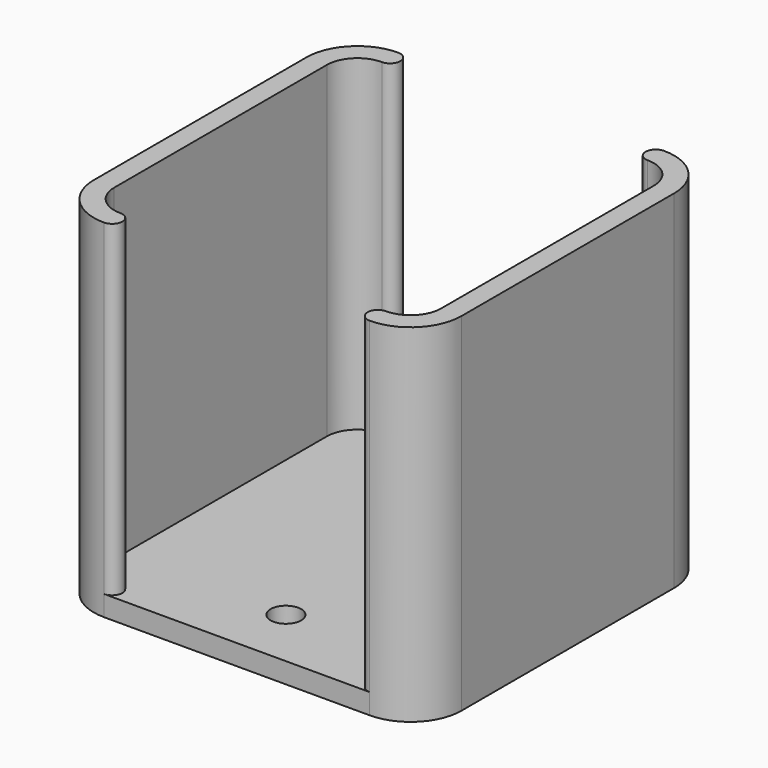
from build123d import *

# Parameters (mm, degrees)
F0_W     = 36
F0_H     = 36
F1_DEPTH = 34
F2_R     = 5
F4_DEPTH = 32
F5_R     = 1.5
F6_DEPTH = 25
F8_DEPTH = 32


with BuildPart() as f1:
    # F0 (on Top) → F1 (new body)
    with BuildSketch(Plane.XY):
        Rectangle(F0_W, F0_H)
    extrude(amount=F1_DEPTH)

    # F2
    f2_edges = [f1.edges().sort_by_distance(p)[0] for p in [
        (18, 18, 17),
        (-18, 18, 17),
        (18, -18, 17),
        (-18, -18, 17),
    ]]
    fillet(f2_edges, radius=F2_R)

    # F3 (on face) → F4 (cut)
    with BuildSketch(Plane.XY.offset(34)):
        with BuildLine():
            ThreePointArc((-13, 18), (-12, 17), (-13, 16))
            ThreePointArc((-13, 16), (-15.1213203436, 15.1213203436), (-16, 13))
            Line((-16, 13), (-16, -13))
            ThreePointArc((-16, -13), (-15.1213203436, -15.1213203436), (-13, -16))
            Line((-13, -16), (13, -16))
            ThreePointArc((13, -16), (15.1213203436, -15.1213203436), (16, -13))
            Line((16, -13), (16, 13))
            ThreePointArc((16, 13), (15.1213203436, 15.1213203436), (13, 16))
            ThreePointArc((13, 16), (12, 17), (13, 18))
            Line((13, 18), (-13, 18))
        make_face()
    extrude(amount=-F4_DEPTH, mode=Mode.SUBTRACT)

    # F5 (on face) → F6 (cut)
    with BuildSketch(Plane(origin=(0, 0, 0), x_dir=(1, 0, 0), z_dir=(0, 0, -1))):
        with Locations((0, 12)):
            Circle(F5_R)
    extrude(amount=-F6_DEPTH, mode=Mode.SUBTRACT)

    # F7 (on face) → F8 (cut, through all)
    with BuildSketch(Plane.XY.offset(34)):
        with BuildLine():
            ThreePointArc((-13, -16), (-12, -17), (-13, -18))
            Line((-13, -18), (13, -18))
            ThreePointArc((13, -18), (12, -17), (13, -16))
            Line((13, -16), (-13, -16))
        make_face()
    extrude(amount=-F8_DEPTH, mode=Mode.SUBTRACT)


solid = f1.part
